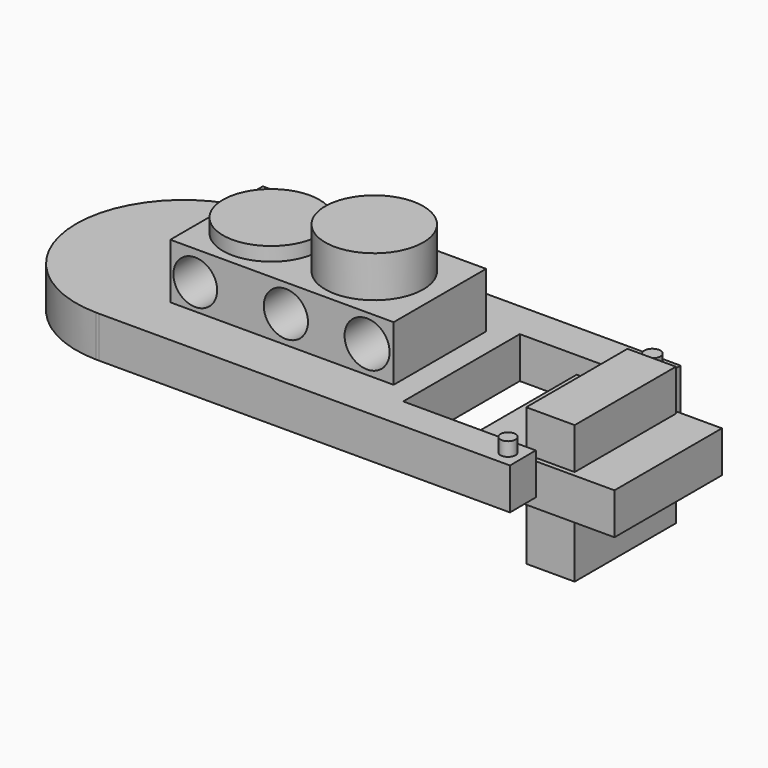
from build123d import *

# Parameters (mm, degrees)
F1_DEPTH       = 7.62
F2_W           = 17.2683522105
F2_H           = 26.7659360543
F3_DEPTH       = 12.7
F4_W           = 41.1562207155
F4_H           = 21.2976261973
F5_DEPTH       = 17.78
F6_R           = 8.8847627662
F7_DEPTH       = 20.32
F8_R           = 9.0372818925
F9_DEPTH       = 25.4
F10_R          = 4.0292833
F10_R_2        = 4.0701887274
F10_R_3        = 4.1507926028
F11_DEPTH      = 25.4
F11_DEPTH_BACK = 25.4
F12_W          = 26.7398282886
F12_H          = 26.8571125343
F13_DEPTH      = 25.4
F13_DEPTH_BACK = 25.4
F14_R          = 1.3901606725
F14_R_2        = 1.4848965251
F15_DEPTH      = 10.16
F16_W          = 26.7659276724
F16_H          = 24.7512953356
F17_DEPTH      = 5.08
F17_DEPTH_BACK = 2.54
F18_W          = 8.9219808578
F18_H          = 23.312266916
F19_DEPTH      = 12.7
F19_DEPTH_BACK = 12.7


with BuildPart() as f1:
    # F0 (on Top) → F1 (new body)
    with BuildSketch(Plane.XY):
        with BuildLine():
            ThreePointArc((0.2858653896, -19.8210498239), (14.1177632175, -13.9156206069), (19.8231111368, 0))
            ThreePointArc((19.8231111368, 0), (14.017056309, 14.017056309), (0, 19.8231111368))
            ThreePointArc((0, 19.8231111368), (-19.8225958019, 0.1429364107), (-0.2858653896, -19.8210498239))
            Line((-0.2858653896, -19.8210498239), (0.2858653896, -19.8210498239))
        make_face()
        with BuildLine():
            ThreePointArc((0, 19.8231111368), (14.017056309, 14.017056309), (19.8231111368, 0))
            ThreePointArc((19.8231111368, 0), (14.1177632175, -13.9156206069), (0.2858653896, -19.8210498239))
            Line((0.2858653896, -19.8210498239), (75.9807236174, -19.8210498239))
            Line((75.9807236174, -19.8210498239), (75.6929144263, 19.8231111368))
            Line((75.6929144263, 19.8231111368), (0, 19.8231111368))
        make_face()
        with BuildLine():
            ThreePointArc((-0.2858653896, -19.8210498239), (0, -19.8231111368), (0.2858653896, -19.8210498239))
            Line((0.2858653896, -19.8210498239), (-0.2858653896, -19.8210498239))
        make_face()
    extrude(amount=F1_DEPTH)

    # F2 (on face) → F3 (cut)
    with BuildSketch(Plane.XY.offset(7.62)):
        with Locations((60.1514019072, -0.4317085259)):
            Rectangle(F2_W, F2_H)
    extrude(amount=-F3_DEPTH, mode=Mode.SUBTRACT)

    # F4 (on Top) → F5 (join)
    with BuildSketch(Plane.XY):
        with Locations((26.6220329795, 0)):
            Rectangle(F4_W, F4_H)
    extrude(amount=F5_DEPTH)

    # F6 (on Top) → F7 (join)
    with BuildSketch(Plane.XY):
        with Locations((16.1171238869, 0)):
            Circle(F6_R)
    extrude(amount=F7_DEPTH)

    # F8 (on Top) → F9 (join)
    with BuildSketch(Plane.XY):
        with Locations((35.1123064756, 0)):
            Circle(F8_R)
    extrude(amount=F9_DEPTH)

    # F10 (on Front) → F11 (cut, two sides)
    with BuildSketch(Plane.XZ) as f11_sk:
        with Locations((10.6488121673, 12.3756472021)):
            Circle(F10_R)
        with Locations((27.3415446281, 12.6634538174)):
            Circle(F10_R_2)
        with Locations((42.3074476421, 12.6634538174)):
            Circle(F10_R_3)
    extrude(amount=F11_DEPTH, mode=Mode.SUBTRACT)
    extrude(f11_sk.sketch, amount=-F11_DEPTH_BACK, mode=Mode.SUBTRACT)

    # F12 (on Top) → F13 (cut, two sides)
    with BuildSketch(Plane.XY) as f13_sk:
        with Locations((64.8755095899, -0.3996533342)):
            Rectangle(F12_W, F12_H)
    extrude(amount=-F13_DEPTH, mode=Mode.SUBTRACT)
    extrude(f13_sk.sketch, amount=F13_DEPTH_BACK, mode=Mode.SUBTRACT)

    # F14 (on Top) → F15 (join)
    with BuildSketch(Plane.XY):
        with Locations((73.2175856829, -16.8278478086)):
            Circle(F14_R)
        with Locations((73.2175856829, 16.4269804955)):
            Circle(F14_R_2)
    extrude(amount=F15_DEPTH)


with BuildPart() as f17:
    # F16 (on Top) → F17 (new body, two sides)
    with BuildSketch(Plane.XY) as f17_sk:
        with Locations((76.1246234179, -0.2878061496)):
            Rectangle(F16_W, F16_H)
    extrude(amount=F17_DEPTH)
    extrude(f17_sk.sketch, amount=-F17_DEPTH_BACK)

    # F18 (on Top) → F19 (join, two sides)
    with BuildSketch(Plane.XY) as f19_sk:
        with Locations((77.0223066211, -0.1439023763)):
            Rectangle(F18_W, F18_H)
    extrude(amount=F19_DEPTH)
    extrude(f19_sk.sketch, amount=-F19_DEPTH_BACK)


solid = Compound([f1.part, f17.part])
